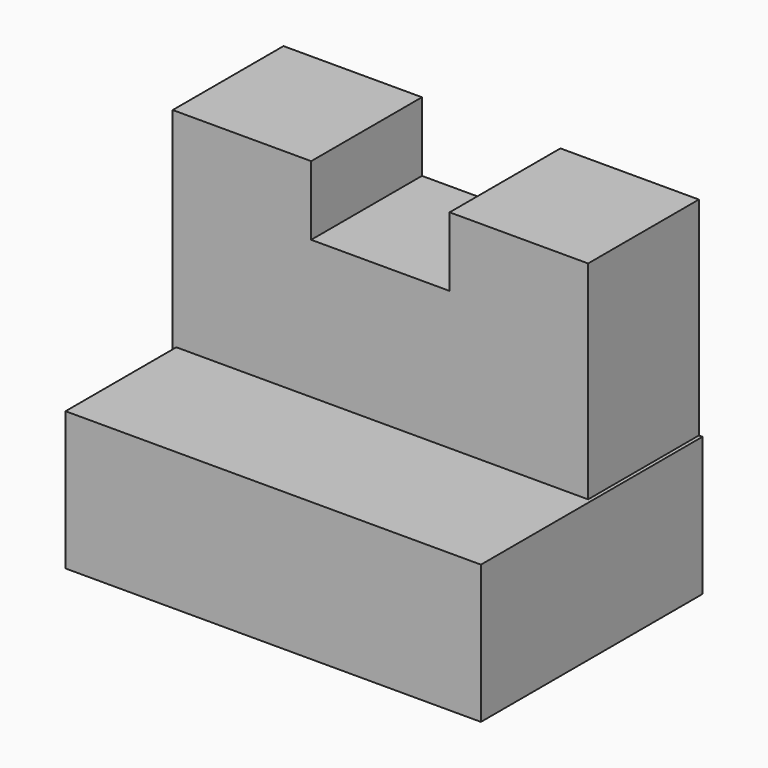
from build123d import *

# Parameters (mm, degrees)
F1_DEPTH = 12.7
F2_W     = 38.1
F2_H     = 12.7
F3_DEPTH = 25.4


with BuildPart() as f1:
    # F0 (on Front) → F1 (new body)
    with BuildSketch(Plane.XZ):
        Polygon((-12.7, 31.75), (-25.4, 31.75), (-25.4, 0), (12.7, 0), (12.7, 31.75), (0, 31.75), (0, 25.4), (-12.7, 25.4), align=None)
    extrude(amount=F1_DEPTH)

    # F2 (on Front) → F3 (join)
    with BuildSketch(Plane.XZ):
        with Locations((-6.020831, 6.35)):
            Rectangle(F2_W, F2_H)
    extrude(amount=F3_DEPTH)


solid = f1.part
